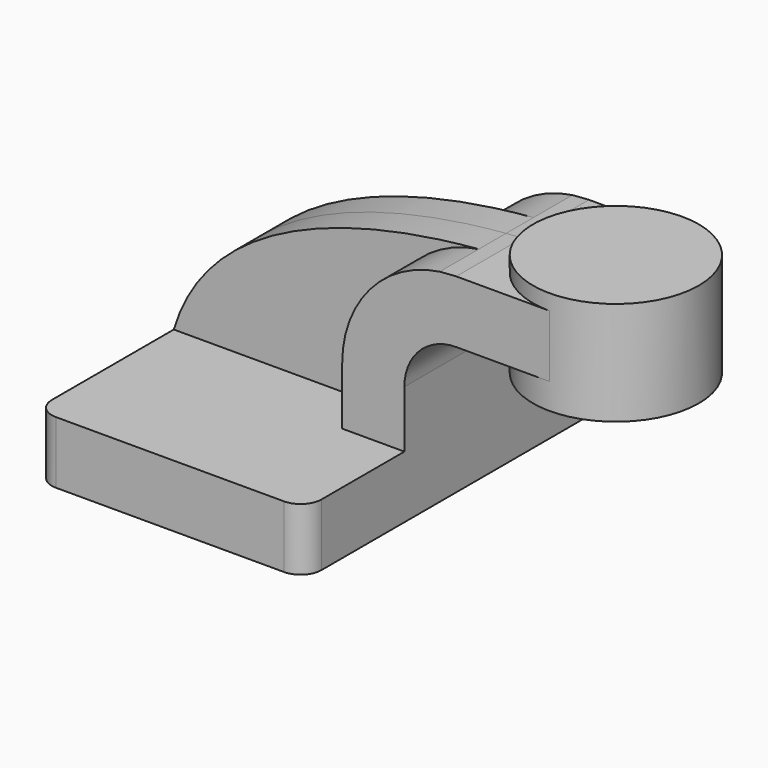
from build123d import *

# Parameters (mm, degrees)
F1_DEPTH = 63.5
F0_W     = 25.4
F0_H     = 19.0500000095
F2_DEPTH = 25.4
F4_R     = 6.35
F5_DEPTH = 10.4775


with BuildPart() as f1:
    # F0 (on Front) → F1 (new body, symmetric)
    with BuildSketch(Plane.XZ):
        Polygon((41.275, -9.525), (41.275, 9.525), (22.2249999905, 9.525), (-41.275, 9.525), (-41.275, -9.525), align=None)
    extrude(amount=F1_DEPTH, both=True)

    # F0 (on Front) → F2 (join, symmetric)
    with BuildSketch(Plane.XZ):
        with BuildLine():
            Line((22.2249999905, 9.525), (41.275, 9.525))
            Line((41.275, 9.525), (41.275, 27.0002))
            ThreePointArc((41.275, 27.0002), (45.9246798487, 38.2255201513), (57.15, 42.8752))
            Line((57.15, 42.8752), (60.325, 42.8752))
            Line((60.325, 42.8752), (60.325, 61.9252000095))
            Line((60.325, 61.9252000095), (57.15, 61.9252000095))
            add(Edge.make_bspline(
                [(52.1072092825, 61.5592203484), (53.8549603488, 61.705132017), (55.5394340747, 61.8258945661), (57.15, 61.9252000095)],
                knots=[105.5502519268, 105.5502519268, 105.5502519268, 105.5502519268, 111.504536168, 111.504536168, 111.504536168, 111.504536168], degree=3))
            ThreePointArc((52.1072092825, 61.5592203484), (30.7314923631, 49.8435377575), (22.2249999905, 27.0002))
            Line((22.2249999905, 27.0002), (22.2249999905, 9.525))
        make_face()
        with Locations((73.025, 52.4002000047)):
            Rectangle(F0_W, F0_H)
    extrude(amount=F2_DEPTH, both=True)

    # F0 (on Front) → F3 (revolve)
    with BuildSketch(Plane.XZ):
        Polygon((85.725, 61.9252000095), (85.725, 42.8752), (85.725, 34.925), (111.125, 34.925), (111.125, 66.675), (85.725, 66.675), align=None)
    revolve(axis=Axis((85.725, 0, 50.8), (0, 0, 1)))

    # F4
    f4_edges = [f1.edges().sort_by_distance(p)[0] for p in [
        (41.275, -63.5, 0),
        (-41.275, -63.5, 0),
        (41.275, 63.5, 0),
        (-41.275, 63.5, 0),
    ]]
    fillet(f4_edges, radius=F4_R)

    # F0 (on Front) → F5 (join, symmetric)
    with BuildSketch(Plane.XZ):
        with BuildLine():
            Line((-41.275, 9.525), (22.2249999905, 9.525))
            Line((22.2249999905, 9.525), (22.2249999905, 27.0002))
            ThreePointArc((22.2249999905, 27.0002), (30.7314923631, 49.8435377575), (52.1072092825, 61.5592203484))
            add(Edge.make_bspline(
                [(-41.275, 9.525), (-29.7409454708, 48.4833118126), (21.1252208708, 58.9726771538), (52.1072092825, 61.5592203484)],
                knots=[0, 0, 0, 0, 105.5502519268, 105.5502519268, 105.5502519268, 105.5502519268], degree=3))
        make_face()
    extrude(amount=F5_DEPTH, both=True)


solid = f1.part
